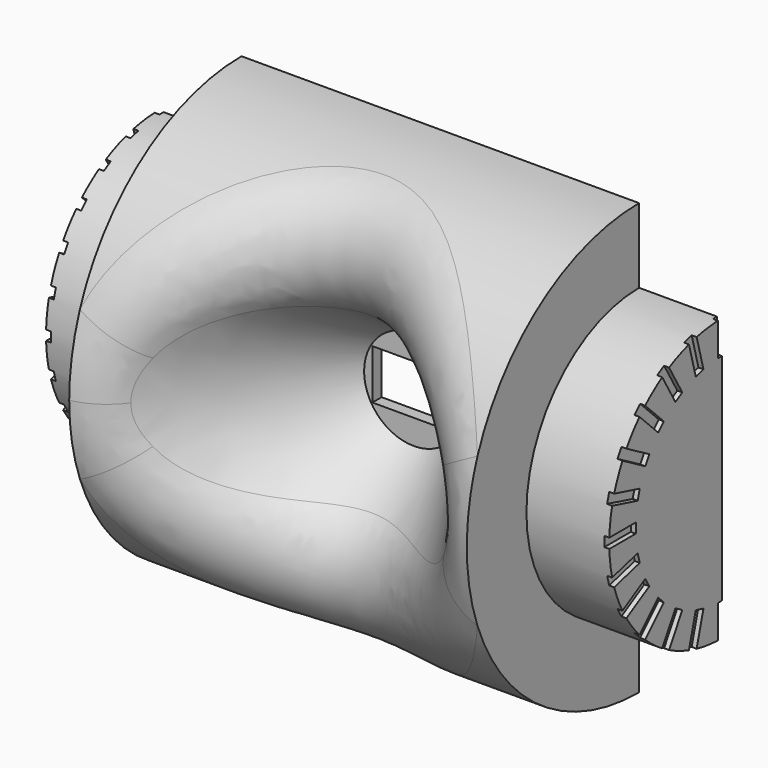
from build123d import *

# Parameters (mm, degrees)
PAD002_DEPTH                    = 12
PAD003_DEPTH                    = 5
POCKET001_DEPTH                 = 1.3
SKETCH008_W                     = 5
SKETCH008_H                     = 3
POCKET002_DEPTH                 = 80.350833
POCKET004_DEPTH                 = 8
SKETCH025_R                     = 1.375
PAD_DEPTH                       = 1.3
FILLET004_R                     = 4
POCKET008_DEPTH                 = 0.3
POCKET008_POLARPATTERN_2_DEPTH  = 0.3
POCKET008_POLARPATTERN_3_DEPTH  = 0.3
POCKET008_POLARPATTERN_4_DEPTH  = 0.3
POCKET008_POLARPATTERN_5_DEPTH  = 0.3
POCKET008_POLARPATTERN_6_DEPTH  = 0.3
POCKET008_POLARPATTERN_7_DEPTH  = 0.3
POCKET008_POLARPATTERN_8_DEPTH  = 0.3
POCKET008_POLARPATTERN_9_DEPTH  = 0.3
POCKET008_POLARPATTERN_10_DEPTH = 0.3
POCKET008_POLARPATTERN_11_DEPTH = 0.3
POCKET008_POLARPATTERN_12_DEPTH = 0.3
POCKET008_POLARPATTERN_13_DEPTH = 0.3


with BuildPart() as part:
    # Sketch005 → Pad002 (new body)
    with BuildSketch(Plane.YZ):
        with BuildLine():
            ThreePointArc((0, 13), (-13, 0), (0, -13))
            Line((0, 13), (0, -13))
        make_face()
    pad002 = extrude(amount=PAD002_DEPTH)

    # Sketch006 → Pad003 (join)
    with BuildSketch(Plane.YZ.offset(12)):
        with BuildLine():
            ThreePointArc((0, 8.5), (-8.5, 0), (0, -8.5))
            Line((0, 8.5), (0, -8.5))
        make_face()
    pad003 = extrude(amount=PAD003_DEPTH)

    # Sketch007 → Pocket001 (cut)
    with BuildSketch(Plane(origin=(0, 0, 0), x_dir=(-1, 0, 0), z_dir=(0, 1, 0))):
        Polygon((-8, 4.4), (0, 4.4), (0, -8.4), (-8, -8.4), (-12.65, -3.75), (-12.65, -0.25), align=None)
    pocket001 = extrude(amount=-POCKET001_DEPTH, mode=Mode.SUBTRACT)

    # Sketch008 → Pocket002 (cut, through all)
    with BuildSketch(Plane.XZ):
        Rectangle(SKETCH008_W, SKETCH008_H)
    pocket002 = extrude(amount=POCKET002_DEPTH, mode=Mode.SUBTRACT)

    # Sketch010 → Pocket004 (cut)
    with BuildSketch(Plane(origin=(0, 0, 0), x_dir=(0, -1, 0), z_dir=(-1, 0, 0))):
        with BuildLine():
            ThreePointArc((1, -8), (3.25, -5.75), (1, -3.5))
            Line((1, -3.5), (1, -8))
        make_face()
    pocket004 = extrude(amount=-POCKET004_DEPTH, mode=Mode.SUBTRACT)

    # Sketch025 (on Face11 of Pocket004) → Pad (join)
    with BuildSketch(Plane.ZX.offset(-1.3)):
        with Locations((-2, 10)):
            Circle(SKETCH025_R)
    pad = extrude(amount=PAD_DEPTH)

    # Mirrored: Pad002, Pad003, Pocket001, Pocket002, Pocket004, Pad across YZ
    add(pad002.mirror(Plane.YZ))
    add(pad003.mirror(Plane.YZ))
    add(pocket001.mirror(Plane.YZ), mode=Mode.SUBTRACT)
    add(pocket002.mirror(Plane.YZ), mode=Mode.SUBTRACT)
    add(pocket004.mirror(Plane.YZ), mode=Mode.SUBTRACT)
    add(pad.mirror(Plane.YZ))

    # Sketch019 → Groove (revolve, cut)
    with BuildSketch(Plane(origin=(0, -2, 0), x_dir=(1, 0, 0), z_dir=(0, 0, 1))):
        Polygon((-3, 0), (-17.004151, -20), (0, -20), (0, 0), align=None)
    revolve(axis=Axis((0, -2, 0), (0, 1, 0)), mode=Mode.SUBTRACT)

    # Fillet004
    fillet004_edges = [part.edges().sort_by_distance(p)[0] for p in [
        (10.702283, -13, 0),
    ]]
    fillet(fillet004_edges, radius=FILLET004_R)

    # Sketch020 → Pocket008 (cut)
    with BuildSketch(Plane.YZ.offset(-17)):
        with BuildLine():
            Line((0.3, 8.5), (0.3, 6.5))
            Line((0.3, 6.5), (-0.3, 6.5))
            Line((-0.3, 6.5), (-0.3, 8.5))
            ThreePointArc((0.3, 8.5), (0, 8.505292), (-0.3, 8.5))
        make_face()
    pocket008 = extrude(amount=POCKET008_DEPTH, mode=Mode.SUBTRACT)

    # Sketch020 PolarPattern 2 → Pocket008 PolarPattern 2 (cut)
    with BuildSketch(Plane(origin=(-17, 0, 0), x_dir=(0, 0.965926, 0.258819), z_dir=(1, 0, 0))):
        with BuildLine():
            Line((0.3, 8.5), (0.3, 6.5))
            Line((0.3, 6.5), (-0.3, 6.5))
            Line((-0.3, 6.5), (-0.3, 8.5))
            ThreePointArc((0.3, 8.5), (0, 8.505292), (-0.3, 8.5))
        make_face()
    pocket008_polarpattern_2 = extrude(amount=POCKET008_POLARPATTERN_2_DEPTH, mode=Mode.SUBTRACT)

    # Sketch020 PolarPattern 3 → Pocket008 PolarPattern 3 (cut)
    with BuildSketch(Plane(origin=(-17, 0, 0), x_dir=(0, 0.866025, 0.5), z_dir=(1, 0, 0))):
        with BuildLine():
            Line((0.3, 8.5), (0.3, 6.5))
            Line((0.3, 6.5), (-0.3, 6.5))
            Line((-0.3, 6.5), (-0.3, 8.5))
            ThreePointArc((0.3, 8.5), (0, 8.505292), (-0.3, 8.5))
        make_face()
    pocket008_polarpattern_3 = extrude(amount=POCKET008_POLARPATTERN_3_DEPTH, mode=Mode.SUBTRACT)

    # Sketch020 PolarPattern 4 → Pocket008 PolarPattern 4 (cut)
    with BuildSketch(Plane(origin=(-17, 0, 0), x_dir=(0, 0.707107, 0.707107), z_dir=(1, 0, 0))):
        with BuildLine():
            Line((0.3, 8.5), (0.3, 6.5))
            Line((0.3, 6.5), (-0.3, 6.5))
            Line((-0.3, 6.5), (-0.3, 8.5))
            ThreePointArc((0.3, 8.5), (0, 8.505292), (-0.3, 8.5))
        make_face()
    pocket008_polarpattern_4 = extrude(amount=POCKET008_POLARPATTERN_4_DEPTH, mode=Mode.SUBTRACT)

    # Sketch020 PolarPattern 5 → Pocket008 PolarPattern 5 (cut)
    with BuildSketch(Plane(origin=(-17, 0, 0), x_dir=(0, 0.5, 0.866025), z_dir=(1, 0, 0))):
        with BuildLine():
            Line((0.3, 8.5), (0.3, 6.5))
            Line((0.3, 6.5), (-0.3, 6.5))
            Line((-0.3, 6.5), (-0.3, 8.5))
            ThreePointArc((0.3, 8.5), (0, 8.505292), (-0.3, 8.5))
        make_face()
    pocket008_polarpattern_5 = extrude(amount=POCKET008_POLARPATTERN_5_DEPTH, mode=Mode.SUBTRACT)

    # Sketch020 PolarPattern 6 → Pocket008 PolarPattern 6 (cut)
    with BuildSketch(Plane(origin=(-17, 0, 0), x_dir=(0, 0.258819, 0.965926), z_dir=(1, 0, 0))):
        with BuildLine():
            Line((0.3, 8.5), (0.3, 6.5))
            Line((0.3, 6.5), (-0.3, 6.5))
            Line((-0.3, 6.5), (-0.3, 8.5))
            ThreePointArc((0.3, 8.5), (0, 8.505292), (-0.3, 8.5))
        make_face()
    pocket008_polarpattern_6 = extrude(amount=POCKET008_POLARPATTERN_6_DEPTH, mode=Mode.SUBTRACT)

    # Sketch020 PolarPattern 7 → Pocket008 PolarPattern 7 (cut)
    with BuildSketch(Plane(origin=(-17, 0, 0), x_dir=(0, 0, 1), z_dir=(1, 0, 0))):
        with BuildLine():
            Line((0.3, 8.5), (0.3, 6.5))
            Line((0.3, 6.5), (-0.3, 6.5))
            Line((-0.3, 6.5), (-0.3, 8.5))
            ThreePointArc((0.3, 8.5), (0, 8.505292), (-0.3, 8.5))
        make_face()
    pocket008_polarpattern_7 = extrude(amount=POCKET008_POLARPATTERN_7_DEPTH, mode=Mode.SUBTRACT)

    # Sketch020 PolarPattern 8 → Pocket008 PolarPattern 8 (cut)
    with BuildSketch(Plane(origin=(-17, 0, 0), x_dir=(0, -0.258819, 0.965926), z_dir=(1, 0, 0))):
        with BuildLine():
            Line((0.3, 8.5), (0.3, 6.5))
            Line((0.3, 6.5), (-0.3, 6.5))
            Line((-0.3, 6.5), (-0.3, 8.5))
            ThreePointArc((0.3, 8.5), (0, 8.505292), (-0.3, 8.5))
        make_face()
    pocket008_polarpattern_8 = extrude(amount=POCKET008_POLARPATTERN_8_DEPTH, mode=Mode.SUBTRACT)

    # Sketch020 PolarPattern 9 → Pocket008 PolarPattern 9 (cut)
    with BuildSketch(Plane(origin=(-17, 0, 0), x_dir=(0, -0.5, 0.866025), z_dir=(1, 0, 0))):
        with BuildLine():
            Line((0.3, 8.5), (0.3, 6.5))
            Line((0.3, 6.5), (-0.3, 6.5))
            Line((-0.3, 6.5), (-0.3, 8.5))
            ThreePointArc((0.3, 8.5), (0, 8.505292), (-0.3, 8.5))
        make_face()
    pocket008_polarpattern_9 = extrude(amount=POCKET008_POLARPATTERN_9_DEPTH, mode=Mode.SUBTRACT)

    # Sketch020 PolarPattern 10 → Pocket008 PolarPattern 10 (cut)
    with BuildSketch(Plane(origin=(-17, 0, 0), x_dir=(0, -0.707107, 0.707107), z_dir=(1, 0, 0))):
        with BuildLine():
            Line((0.3, 8.5), (0.3, 6.5))
            Line((0.3, 6.5), (-0.3, 6.5))
            Line((-0.3, 6.5), (-0.3, 8.5))
            ThreePointArc((0.3, 8.5), (0, 8.505292), (-0.3, 8.5))
        make_face()
    pocket008_polarpattern_10 = extrude(amount=POCKET008_POLARPATTERN_10_DEPTH, mode=Mode.SUBTRACT)

    # Sketch020 PolarPattern 11 → Pocket008 PolarPattern 11 (cut)
    with BuildSketch(Plane(origin=(-17, 0, 0), x_dir=(0, -0.866025, 0.5), z_dir=(1, 0, 0))):
        with BuildLine():
            Line((0.3, 8.5), (0.3, 6.5))
            Line((0.3, 6.5), (-0.3, 6.5))
            Line((-0.3, 6.5), (-0.3, 8.5))
            ThreePointArc((0.3, 8.5), (0, 8.505292), (-0.3, 8.5))
        make_face()
    pocket008_polarpattern_11 = extrude(amount=POCKET008_POLARPATTERN_11_DEPTH, mode=Mode.SUBTRACT)

    # Sketch020 PolarPattern 12 → Pocket008 PolarPattern 12 (cut)
    with BuildSketch(Plane(origin=(-17, 0, 0), x_dir=(0, -0.965926, 0.258819), z_dir=(1, 0, 0))):
        with BuildLine():
            Line((0.3, 8.5), (0.3, 6.5))
            Line((0.3, 6.5), (-0.3, 6.5))
            Line((-0.3, 6.5), (-0.3, 8.5))
            ThreePointArc((0.3, 8.5), (0, 8.505292), (-0.3, 8.5))
        make_face()
    pocket008_polarpattern_12 = extrude(amount=POCKET008_POLARPATTERN_12_DEPTH, mode=Mode.SUBTRACT)

    # Sketch020 PolarPattern 13 → Pocket008 PolarPattern 13 (cut)
    with BuildSketch(Plane(origin=(-17, 0, 0), x_dir=(0, -1, 0), z_dir=(1, 0, 0))):
        with BuildLine():
            Line((0.3, 8.5), (0.3, 6.5))
            Line((0.3, 6.5), (-0.3, 6.5))
            Line((-0.3, 6.5), (-0.3, 8.5))
            ThreePointArc((0.3, 8.5), (0, 8.505292), (-0.3, 8.5))
        make_face()
    pocket008_polarpattern_13 = extrude(amount=POCKET008_POLARPATTERN_13_DEPTH, mode=Mode.SUBTRACT)

    # Mirrored004: Pocket008, Pocket008 PolarPattern 2, Pocket008 PolarPattern 3, Pocket008 PolarPattern 4, Pocket008 PolarPattern 5, Pocket008 PolarPattern 6, Pocket008 PolarPattern 7, Pocket008 PolarPattern 8, Pocket008 PolarPattern 9, Pocket008 PolarPattern 10, Pocket008 PolarPattern 11, Pocket008 PolarPattern 12, Pocket008 PolarPattern 13 across YZ
    add(pocket008.mirror(Plane.YZ), mode=Mode.SUBTRACT)
    add(pocket008_polarpattern_2.mirror(Plane.YZ), mode=Mode.SUBTRACT)
    add(pocket008_polarpattern_3.mirror(Plane.YZ), mode=Mode.SUBTRACT)
    add(pocket008_polarpattern_4.mirror(Plane.YZ), mode=Mode.SUBTRACT)
    add(pocket008_polarpattern_5.mirror(Plane.YZ), mode=Mode.SUBTRACT)
    add(pocket008_polarpattern_6.mirror(Plane.YZ), mode=Mode.SUBTRACT)
    add(pocket008_polarpattern_7.mirror(Plane.YZ), mode=Mode.SUBTRACT)
    add(pocket008_polarpattern_8.mirror(Plane.YZ), mode=Mode.SUBTRACT)
    add(pocket008_polarpattern_9.mirror(Plane.YZ), mode=Mode.SUBTRACT)
    add(pocket008_polarpattern_10.mirror(Plane.YZ), mode=Mode.SUBTRACT)
    add(pocket008_polarpattern_11.mirror(Plane.YZ), mode=Mode.SUBTRACT)
    add(pocket008_polarpattern_12.mirror(Plane.YZ), mode=Mode.SUBTRACT)
    add(pocket008_polarpattern_13.mirror(Plane.YZ), mode=Mode.SUBTRACT)


solid = part.part
